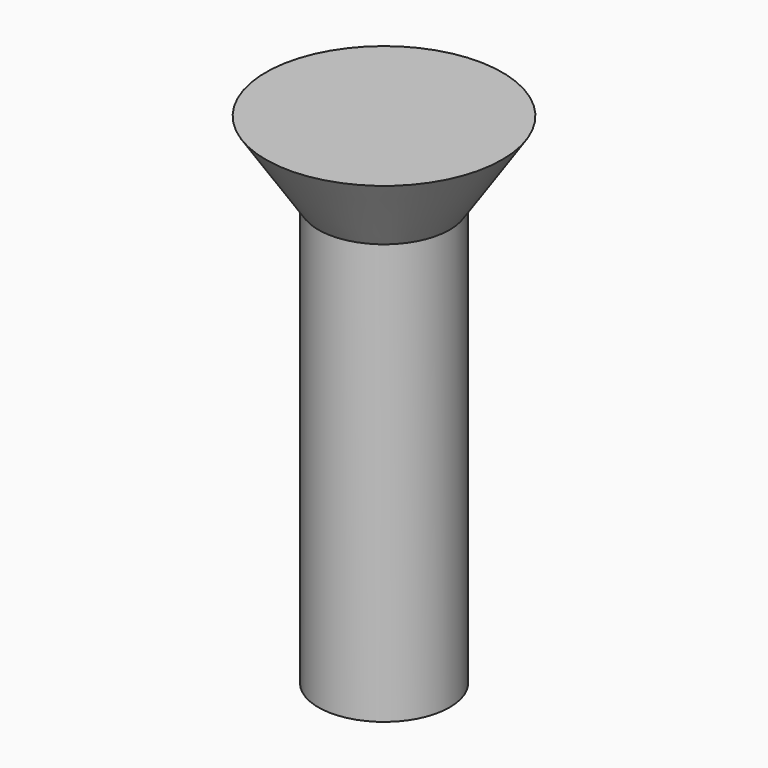
from build123d import *

# Parameters (mm, degrees)
CYLINDER011_R                   = 2.5
CYLINDER011_DEPTH               = 16
FUSION001018017_PLACEMENT_ANGLE = 180
CLONE019_PLACEMENT_ANGLE        = 180


with BuildPart() as cone003:
    # Cone003 → Cone003 (revolve)
    with BuildSketch(Plane(origin=(0, 0, -3), x_dir=(1, 0, 0), z_dir=(0, -1, 0))):
        Polygon((0, 0), (4.5, 0), (2.5, 3), (0, 3), align=None)
    revolve(axis=Axis((0, 0, -3), (0, 0, 1)))


with BuildPart() as obj1:
    # Cylinder011 → Cylinder011 (new body)
    with BuildSketch(Plane.XY):
        Circle(CYLINDER011_R)
    extrude(amount=CYLINDER011_DEPTH)

    # Fusion001018017: union Cone003
    add(cone003.part)


with BuildPart() as obj1_1:
    # Fusion001018017 placement: moved
    add(obj1.part.moved(Location((45, 15, 21))).rotate(Axis((45, 15, 21), (0, 1, 0)), FUSION001018017_PLACEMENT_ANGLE))


with BuildPart() as obj1_2:
    # Clone019 placement: moved
    add(obj1_1.part.moved(Location((115, 190, 0))).rotate(Axis((115, 190, 0), (0, 0, 1)), CLONE019_PLACEMENT_ANGLE))


with BuildPart() as obj1_3:
    # Clone029 placement: moved
    add(obj1_2.part.moved(Location((270, 0, 0))))


solid = obj1_3.part
